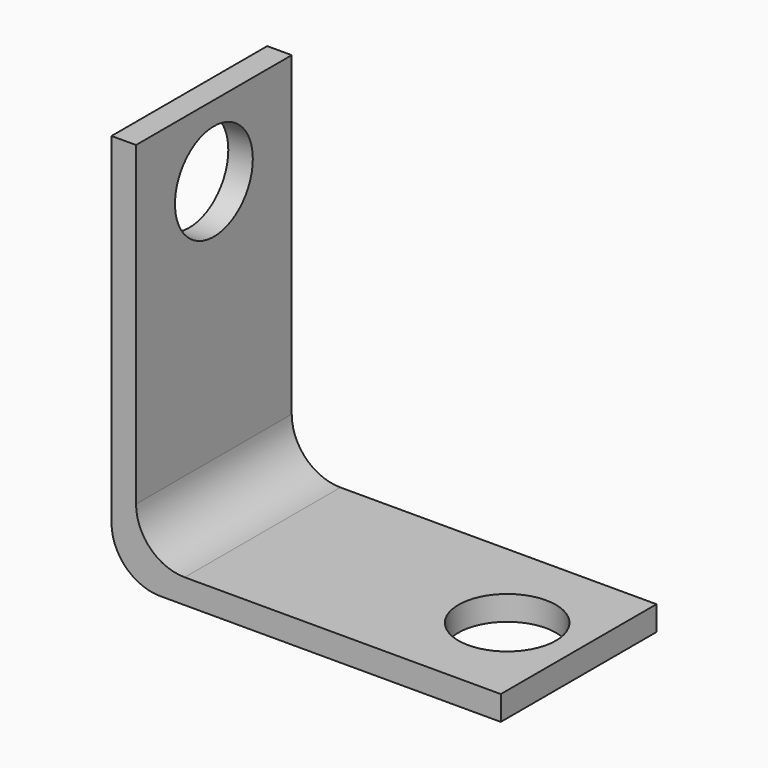
from build123d import *

# Parameters (mm, degrees)
F1_DEPTH = 12.7
F2_R     = 3.175
F3_DEPTH = 25.4
F4_R     = 3.175
F5_DEPTH = 25.4


with BuildPart() as f1:
    # F0 (on Front) → F1 (new body)
    with BuildSketch(Plane.XZ):
        with BuildLine():
            Line((0, 25.4), (0, 3.175))
            ThreePointArc((0, 3.175), (0.929936, 0.929936), (3.175, 0))
            Line((3.175, 0), (25.4, 0))
            Line((25.4, 0), (25.4, 1.6002))
            Line((25.4, 1.6002), (4.7752, 1.6002))
            ThreePointArc((4.7752, 1.6002), (2.530136, 2.530136), (1.6002, 4.7752))
            Line((1.6002, 4.7752), (1.6002, 25.4))
            Line((1.6002, 25.4), (0, 25.4))
        make_face()
    extrude(amount=F1_DEPTH)

    # F2 (on face) → F3 (cut)
    with BuildSketch(Plane.XY.offset(1.6002)):
        with Locations((20.73656, -6.35)):
            Circle(F2_R)
    extrude(amount=-F3_DEPTH, mode=Mode.SUBTRACT)

    # F4 (on face) → F5 (cut)
    with BuildSketch(Plane.YZ.offset(1.6002)):
        with Locations((-6.35, 20.7264)):
            Circle(F4_R)
    extrude(amount=-F5_DEPTH, mode=Mode.SUBTRACT)


solid = f1.part
